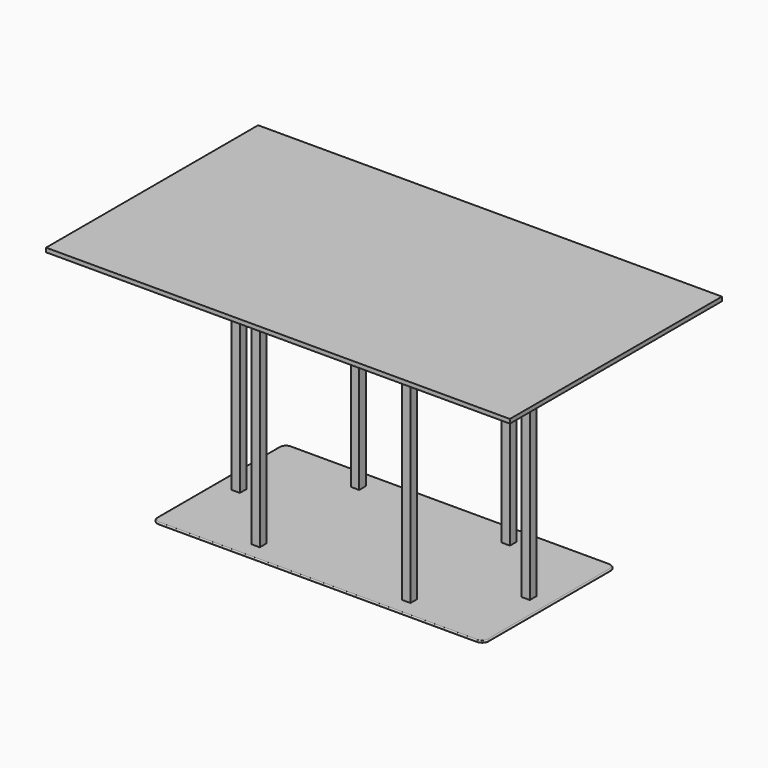
from build123d import *

# Parameters (mm, degrees)
F0_W      = 25
F0_H      = 25
F1_DEPTH  = 700
F4_DEPTH  = 3
F6_W      = 1400
F6_H      = 800
F7_DEPTH  = 25
F8_SIZE2  = 12.5
F8_SIZE   = 40
F10_W     = 1000
F10_H     = 500
F11_DEPTH = 5
F12_R     = 20
F13_R     = 3


with BuildPart() as f1:
    # F0 (on Top) → F1 (new body)
    with BuildSketch(Plane.XY):
        with Locations((-472.5, 587.5)):
            Rectangle(F0_W, F0_H)
    extrude(amount=F1_DEPTH)


with BuildPart() as f1b:
    # F0 (on Top) → F1, piece 2 (new body)
    with BuildSketch(Plane.XY):
        Polygon((-250, 387.5), (-250, 400), (-250, 412.5), (-275, 412.5), (-275, 387.5), align=None)
    extrude(amount=F1_DEPTH)


with BuildPart() as f1c:
    # F0 (on Top) → F1, piece 3 (new body)
    with BuildSketch(Plane.XY):
        with Locations((-472.5, 212.5)):
            Rectangle(F0_W, F0_H)
    extrude(amount=F1_DEPTH)


with BuildPart() as f1d:
    # F0 (on Top) → F1, piece 4 (new body)
    with BuildSketch(Plane.XY):
        with Locations((-927.5, 587.5)):
            Rectangle(F0_W, F0_H)
    extrude(amount=F1_DEPTH)


with BuildPart() as f1e:
    # F0 (on Top) → F1, piece 5 (new body)
    with BuildSketch(Plane.XY):
        with Locations((-927.5, 212.5)):
            Rectangle(F0_W, F0_H)
    extrude(amount=F1_DEPTH)


with BuildPart() as f1f:
    # F0 (on Top) → F1, piece 6 (new body)
    with BuildSketch(Plane.XY):
        with Locations((-1137.5, 400)):
            Rectangle(F0_W, F0_H)
    extrude(amount=F1_DEPTH)


with BuildPart() as f4:
    # F3 (on offset) → F4 (new body)
    with BuildSketch(Plane.XY.offset(700)):
        Polygon((-250, 387.5), (-250, 400), (-250, 412.5), (-460, 600), (-485, 600), (-485, 400), (-485, 200), (-460, 200), align=None)
    extrude(amount=-F4_DEPTH)


with BuildPart() as f4b:
    # F3 (on offset) → F4, piece 2 (new body)
    with BuildSketch(Plane.XY.offset(700)):
        Polygon((-915, 600), (-940, 600), (-1150, 412.5), (-1150, 400), (-1150, 387.5), (-940, 200), (-915, 200), (-915, 400), align=None)
    extrude(amount=-F4_DEPTH)


with BuildPart() as f7:
    # F6 (on offset) → F7 (new body)
    with BuildSketch(Plane.XY.offset(700)):
        with Locations((-700, 400)):
            Rectangle(F6_W, F6_H)
    extrude(amount=F7_DEPTH)

    # F8
    f8_edges = [f7.edges().sort_by_distance(p)[0] for p in [
        (-700, 0, 700),
        (0, 400, 700),
        (-700, 800, 700),
        (-1400, 400, 700),
    ]]
    f8_side = f7.faces().sort_by_distance((-700, 400, 700))[0]
    chamfer(f8_edges, length=F8_SIZE, length2=F8_SIZE2, reference=f8_side)


with BuildPart() as f11:
    # F10 (on offset) → F11 (new body)
    with BuildSketch(Plane(origin=(0, 0, 5), x_dir=(1, 0, 0), z_dir=(0, 0, -1))):
        with Locations((-700, -400)):
            Rectangle(F10_W, F10_H)
    extrude(amount=F11_DEPTH)

    # F12
    f12_edges = [f11.edges().sort_by_distance(p)[0] for p in [
        (-1200, 150, 2.5),
        (-1200, 650, 2.5),
        (-200, 150, 2.5),
        (-200, 650, 2.5),
    ]]
    fillet(f12_edges, radius=F12_R)

    # F13
    f13_edges = [f11.edges().sort_by_distance(p)[0] for p in [
        (-700, 150, 5),
        (-200, 400, 5),
        (-205.857864, 644.142136, 5),
        (-700, 650, 5),
        (-1194.142136, 644.142136, 5),
        (-1200, 400, 5),
        (-1194.142136, 155.857864, 5),
    ]]
    fillet(f13_edges, radius=F13_R)


solid = Compound([f1.part, f1b.part, f1c.part, f1d.part, f1e.part, f1f.part, f4.part, f4b.part, f7.part, f11.part])
